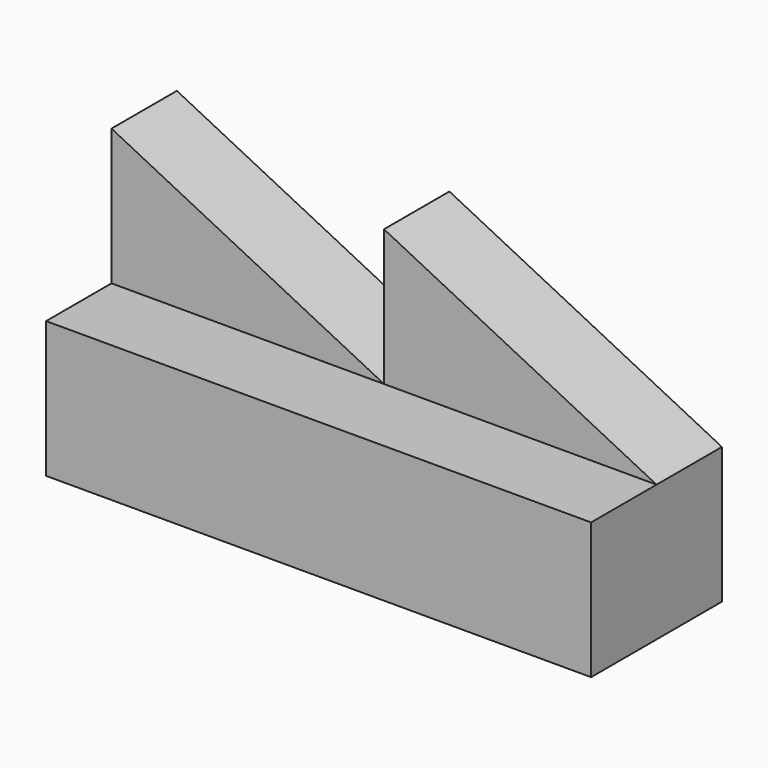
from build123d import *

# Parameters (mm, degrees)
F1_DEPTH = 38.1
F2_DEPTH = 19.05


with BuildPart() as f1:
    # F0 (on Front) → F1 (new body)
    with BuildSketch(Plane.XZ):
        Polygon((31.75, 16.041557), (-31.75, 16.041557), (-31.75, -15.708443), (95.25, -15.708443), (95.25, 16.041557), align=None)
    extrude(amount=F1_DEPTH)

    # F0 (on Front) → F2 (join)
    with BuildSketch(Plane.XZ):
        Polygon((-31.75, 47.791557), (-31.75, 16.041557), (31.75, 16.041557), align=None)
        Polygon((31.75, 16.041557), (-31.75, 16.041557), (-31.75, -15.708443), (95.25, -15.708443), (95.25, 16.041557), align=None)
        Polygon((31.75, 47.791557), (31.75, 16.041557), (95.25, 16.041557), align=None)
    extrude(amount=F2_DEPTH)


solid = f1.part
